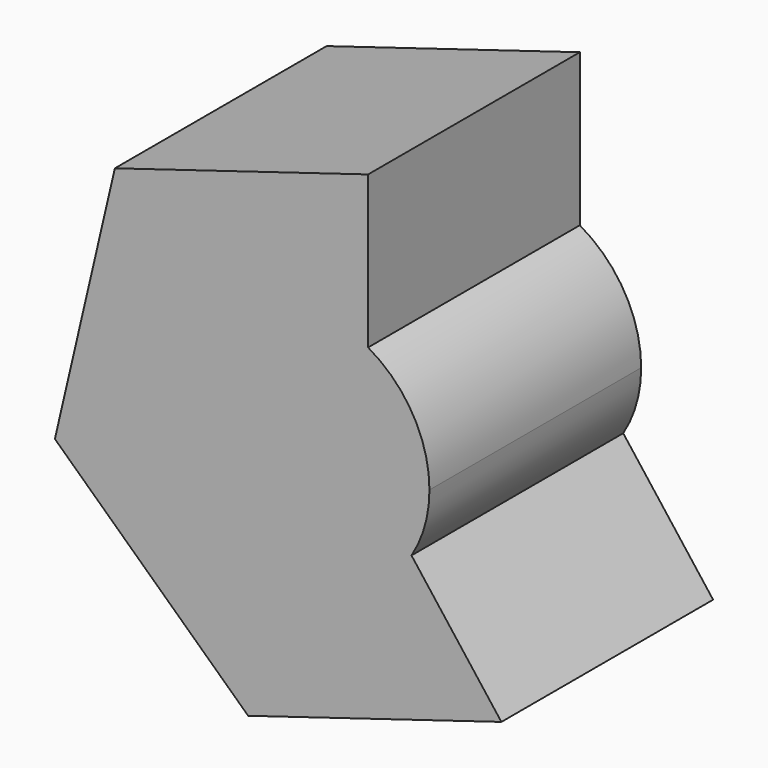
from build123d import *

# Parameters (mm, degrees)
F1_DEPTH = 25.4


with BuildPart() as f1:
    # F0 (on Front) → F1 (new body)
    with BuildSketch(Plane.XZ):
        with BuildLine():
            Line((5.7565809201, 24.7419614515), (-18.5488766964, 17.3563260415))
            Line((-18.5488766964, 17.3563260415), (-24.3054576165, -7.38563541))
            Line((-24.3054576165, -7.38563541), (-5.7565809201, -24.7419614515))
            Line((-5.7565809201, -24.7419614515), (18.5488766964, -17.3563260415))
            Line((18.5488766964, -17.3563260415), (9.9212024357, -6.0961798708))
            ThreePointArc((9.9212024357, -6.0961798708), (-11.27855426, -2.8961837982), (5.7565809201, 10.1220276081))
            Line((5.7565809201, 10.1220276081), (5.7565809201, 24.7419614515))
        make_face()
        with BuildLine():
            ThreePointArc((11.6444693648, 0), (10.0654358316, 5.8549695395), (5.7565809201, 10.1220276081))
            Line((5.7565809201, 10.1220276081), (5.7565809201, -0.6608509982))
            Line((5.7565809201, -0.6608509982), (9.9212024357, -6.0961798708))
            ThreePointArc((9.9212024357, -6.0961798708), (11.2053738138, -3.1675328698), (11.6444693648, 0))
        make_face()
        with BuildLine():
            Line((5.7565809201, -0.6608509982), (5.7565809201, 10.1220276081))
            ThreePointArc((5.7565809201, 10.1220276081), (-11.27855426, -2.8961837982), (9.9212024357, -6.0961798708))
            Line((9.9212024357, -6.0961798708), (5.7565809201, -0.6608509982))
        make_face()
    extrude(amount=F1_DEPTH)


solid = f1.part
